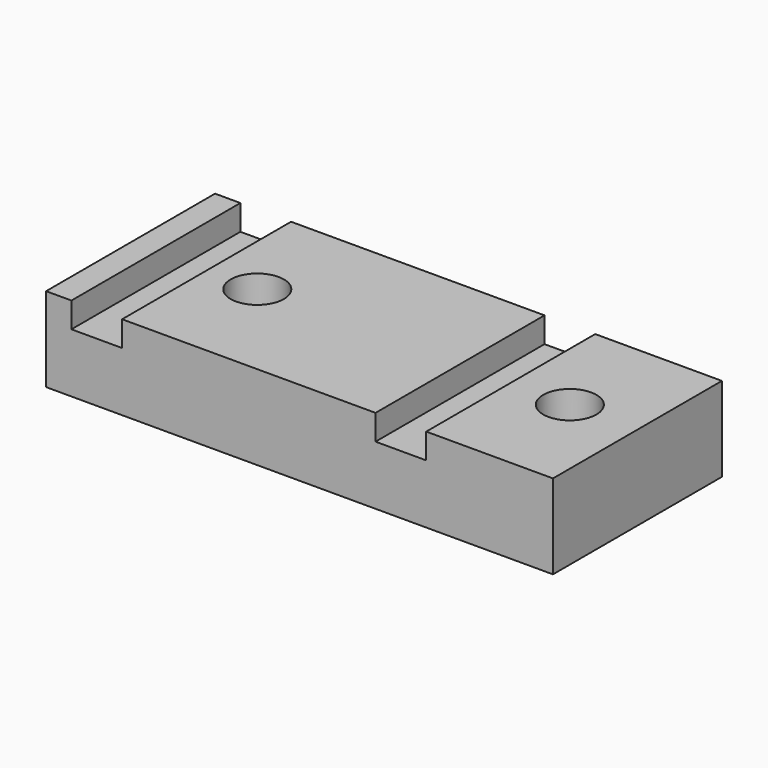
from build123d import *

# Parameters (mm, degrees)
F0_W     = 60
F0_H     = 25
F1_DEPTH = 10
F2_W     = 6
F2_H     = 25
F3_DEPTH = 3
F6_D     = 6.3
F7_DEPTH = 5


with BuildPart() as f1:
    # F0 (on Top) → F1 (new body)
    with BuildSketch(Plane.XY):
        with Locations((30, 12.5)):
            Rectangle(F0_W, F0_H)
    extrude(amount=F1_DEPTH)

    # F2 (on face) → F3 (cut)
    with BuildSketch(Plane.XY.offset(10)):
        with Locations((6, 12.5)):
            Rectangle(F2_W, F2_H)
        with Locations((42, 12.5)):
            Rectangle(F2_W, F2_H)
    extrude(amount=-F3_DEPTH, mode=Mode.SUBTRACT)

    # F6 (through all)
    with Locations(Plane(origin=(0, 0, 0), x_dir=(1, 0, 0), z_dir=(0, 0, -1))):
        with Locations((15, -12.5), (52, -12.5)):
            Hole(F6_D / 2)

    # F5 (on face) → F7 (cut)
    with BuildSketch(Plane(origin=(0, 0, 0), x_dir=(1, 0, 0), z_dir=(0, 0, -1))):
        Polygon((21.119913, -12.5), (18.059956, -7.2), (11.940044, -7.2), (8.880087, -12.5), (11.940044, -17.8), (18.059956, -17.8), align=None)
        Polygon((45.880087, -12.5), (48.940044, -17.8), (55.059956, -17.8), (58.119913, -12.5), (55.059956, -7.2), (48.940044, -7.2), align=None)
    extrude(amount=-F7_DEPTH, mode=Mode.SUBTRACT)


solid = f1.part
